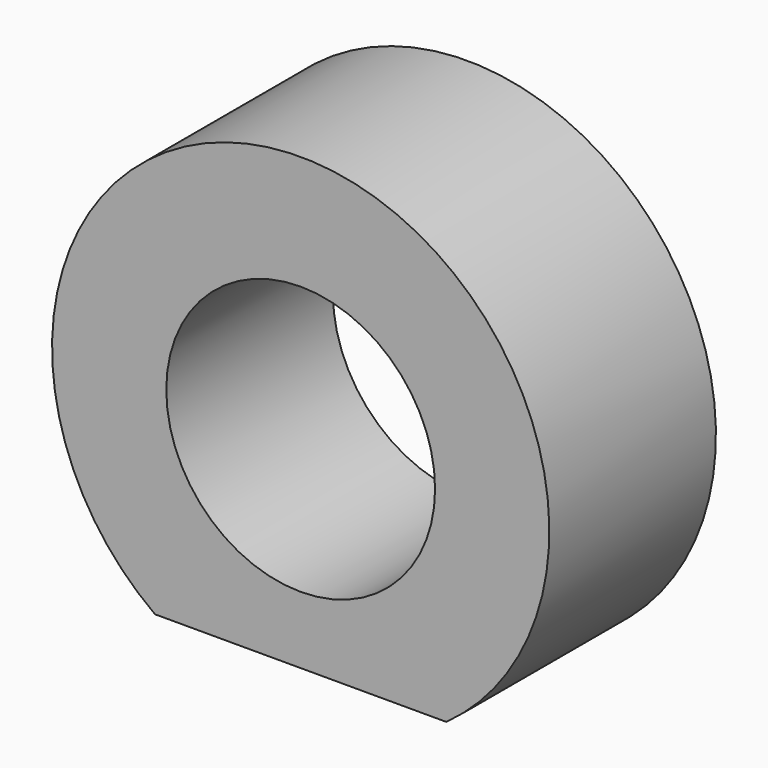
from build123d import *

# Parameters (mm, degrees)
F0_R     = 10
F1_DEPTH = 15.5
F3_D     = 2
F3_DEPTH = 2
F3_TIP   = 0.600860619


with BuildPart() as f1:
    # F0 (on Front) → F1 (new body)
    with BuildSketch(Plane.XZ):
        with BuildLine():
            Line((-10.84, -14.9914775789), (10.84, -14.9914775789))
            ThreePointArc((10.84, -14.9914775789), (0, 18.5), (-10.84, -14.9914775789))
        make_face()
        Circle(F0_R, mode=Mode.SUBTRACT)
    extrude(amount=F1_DEPTH)

    # F3
    with Locations(Plane(origin=(0, 0, -14.9914775789), x_dir=(1, 0, 0), z_dir=(0, 0, -1))):
        with Locations((0, 7.75)):
            Hole(F3_D / 2, depth=F3_DEPTH)
            with Locations((0, 0, -(F3_DEPTH + F3_TIP / 2))):  # 118° drill point
                Cone(0, F3_D / 2, F3_TIP, mode=Mode.SUBTRACT)


solid = f1.part
